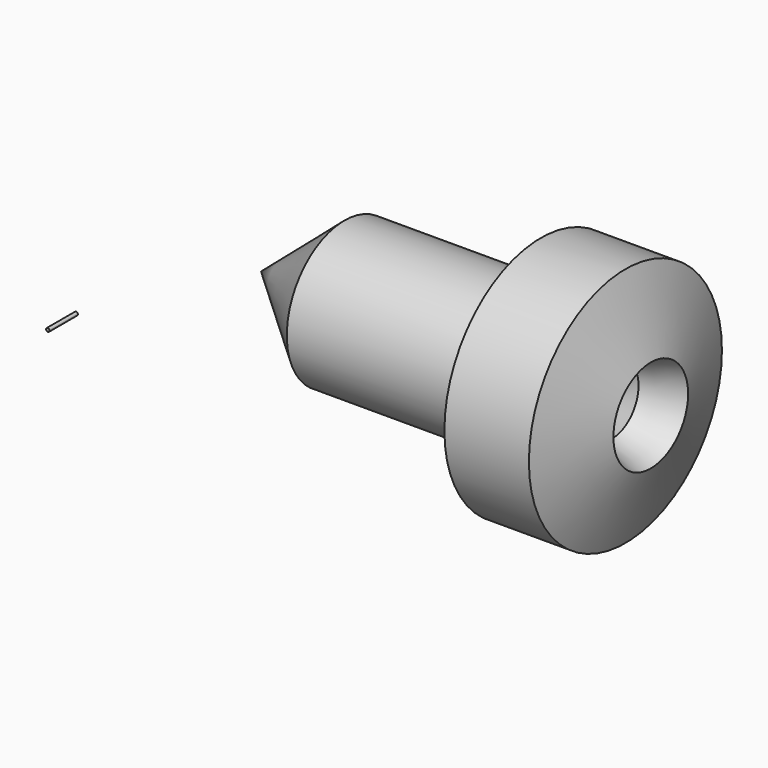
from build123d import *

# Parameters (mm, degrees)
F2_R     = 0.5
F3_DEPTH = 10.15


with BuildPart() as f1:
    # F0 (on Top) → F1 (revolve)
    with BuildSketch(Plane.XY):
        Polygon((43.414786, 62.34964), (19.529365, 41.723897), (27.179618, 41.723897), (45.274843, 57.34964), (104.651337, 57.34964), (104.651337, 71.257609), (120.267675, 71.257609), (124.744087, 58.201417), (116.425017, 55.349162), (109.454778, 41.723897), (115.071051, 41.723897), (119.956736, 51.274324), (131.095439, 55.093311), (123.839103, 76.257609), (99.651337, 76.257609), (99.651337, 62.34964), align=None)
    revolve(axis=Axis((71.125335, 41.723897, 0), (1, 0, 0)))


with BuildPart() as f3:
    # F2 (on Front) → F3 (new body)
    with BuildSketch(Plane.XZ):
        Circle(F2_R)
    extrude(amount=F3_DEPTH)


solid = Compound([f1.part, f3.part])
